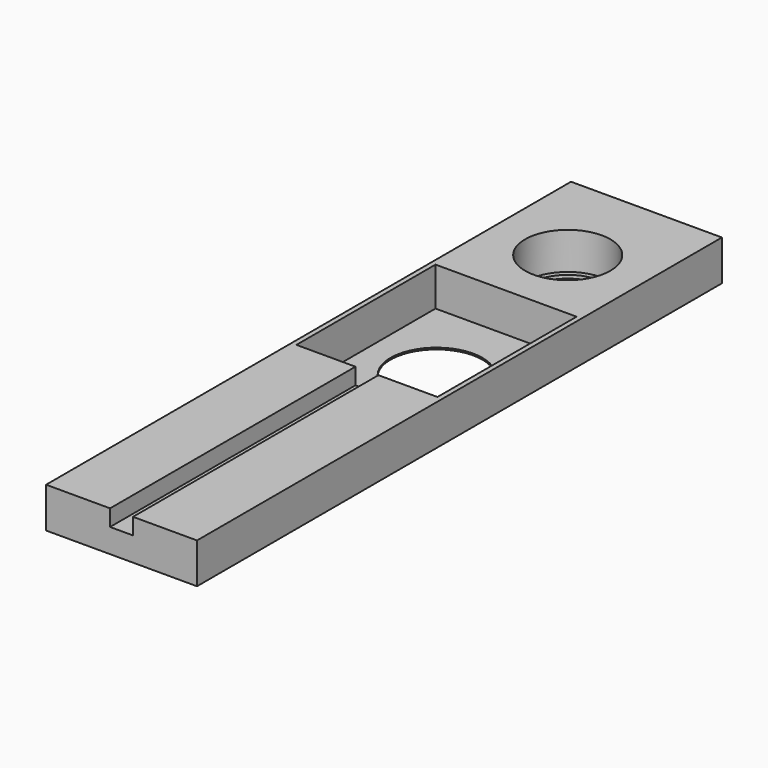
from build123d import *

# Parameters (mm, degrees)
F0_W        = 46
F0_H        = 200
F0_W_2      = 43
F0_H_2      = 53
F0_R        = 13
F1_DEPTH    = 11.8
F0_R_2      = 14
F1_FACE_W   = 46
F1_FACE_H   = 200
F1_FACE_W_2 = 43
F1_FACE_H_2 = 53
F1_FACE_R   = 13
F2_DEPTH    = 0.5
F3_W        = 7
F3_H        = 93.5
F4_DEPTH    = 5
F0_R_3      = 11.5
F5_DEPTH    = 1


with BuildPart() as f1:
    # F0 (on Top) → F1 (new body)
    with BuildSketch(Plane.XY):
        with Locations((0.973917, 4.583021)):
            Rectangle(F0_W, F0_H)
        with Locations((0.973917, 24.583021)):
            Rectangle(F0_W_2, F0_H_2, mode=Mode.SUBTRACT)
        with Locations((0.973917, 74.583021)):
            Circle(F0_R, mode=Mode.SUBTRACT)
    extrude(amount=F1_DEPTH)

    # F0 (on Top) + F1_face (on face) → F2 (join)
    with BuildSketch(Plane.XY):
        with Locations((0.973917, 24.583021)):
            Rectangle(F0_W_2, F0_H_2)
        with Locations((0.973917, 24.583021)):
            Circle(F0_R_2, mode=Mode.SUBTRACT)
    with BuildSketch(Plane(origin=(0.973917, -8.365981, 11.8), x_dir=(1, 0, 0), z_dir=(0, 0, 1))):
        with Locations((0, 12.949002)):
            Rectangle(F1_FACE_W, F1_FACE_H)
        with Locations((0, 32.949002)):
            Rectangle(F1_FACE_W_2, F1_FACE_H_2, mode=Mode.SUBTRACT)
        with Locations((0, 82.949002)):
            Circle(F1_FACE_R, mode=Mode.SUBTRACT)
    extrude(amount=F2_DEPTH)

    # F3 (on face) → F4 (cut)
    with BuildSketch(Plane.XY.offset(12.3)):
        with Locations((0.973917, -48.666979)):
            Rectangle(F3_W, F3_H)
    extrude(amount=-F4_DEPTH, mode=Mode.SUBTRACT)

    # F0 (on Top) → F5 (join)
    with BuildSketch(Plane.XY):
        with Locations((0.973917, 74.583021)):
            Circle(F0_R)
        with Locations((0.973917, 74.583021)):
            Circle(F0_R_3, mode=Mode.SUBTRACT)
    extrude(amount=F5_DEPTH)


solid = f1.part
